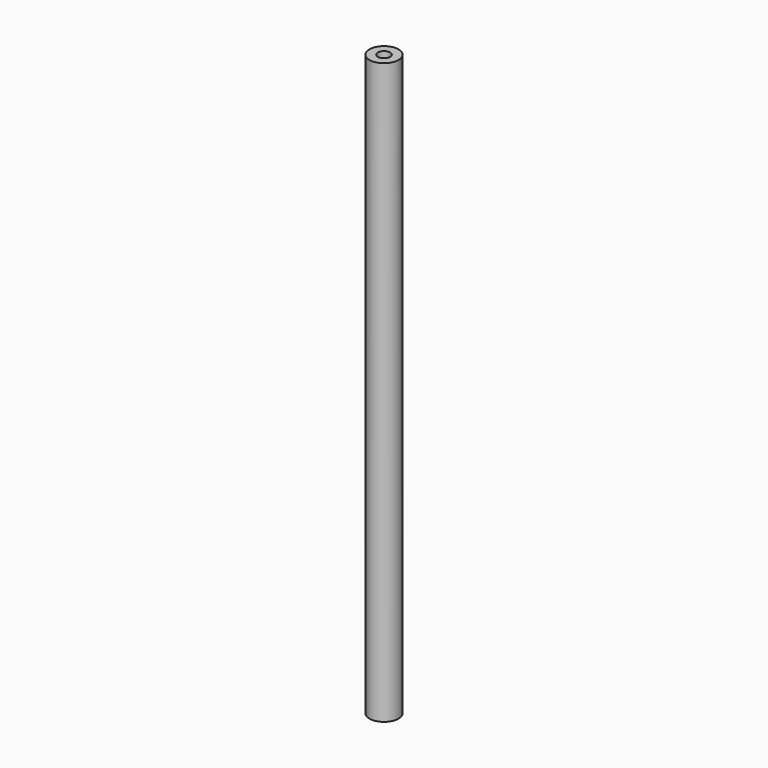
from build123d import *

# Parameters (mm, degrees)
SKETCH_R    = 5
PAD_DEPTH   = 100
SKETCH001_R = 2.1
HOLE_DEPTH  = 600.999753


with BuildPart() as part:
    # Sketch → Pad (new body, symmetric)
    with BuildSketch(Plane.XY):
        Circle(SKETCH_R)
    extrude(amount=PAD_DEPTH, both=True)

    # Sketch001 (on Face3 of Pad) → Hole (cut, through all)
    with BuildSketch(Plane.XY.offset(100)):
        Circle(SKETCH001_R)
    hole = extrude(amount=-HOLE_DEPTH, mode=Mode.SUBTRACT)

    # Mirrored: Hole across XY
    add(hole.mirror(Plane.XY), mode=Mode.SUBTRACT)


solid = part.part
